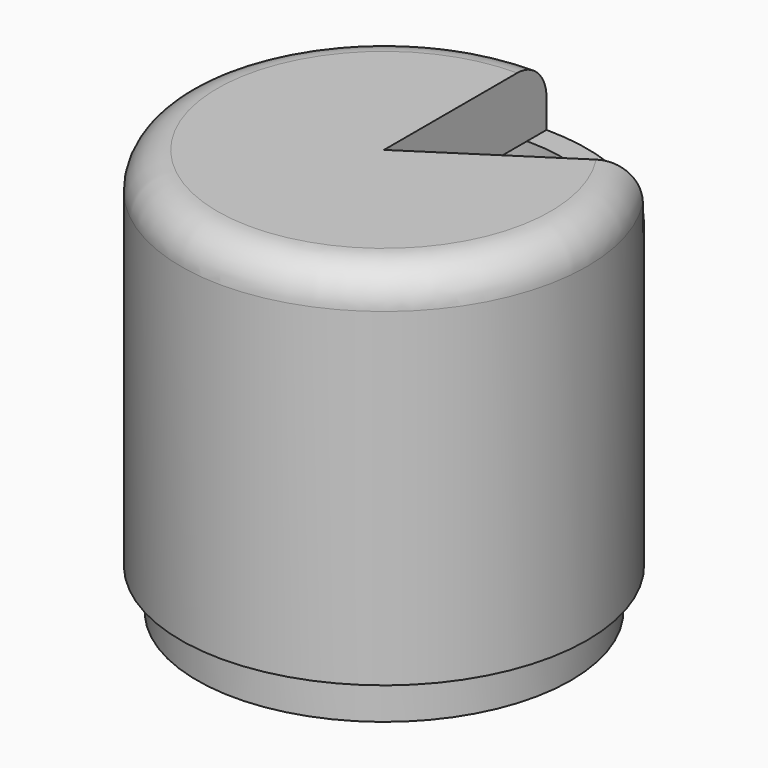
from build123d import *

# Parameters (mm, degrees)
BOX001_W               = 37
BOX001_H               = 39
BOX001_DEPTH           = 10
BOX001_PLACEMENT_ANGLE = 57
BOX_W                  = 37
BOX_H                  = 39
BOX_DEPTH              = 10
CYLINDER001_R          = 22
CYLINDER001_DEPTH      = 37
CYLINDER_R             = 25
CYLINDER_DEPTH         = 40
CYLINDER004_R          = 21
CYLINDER004_DEPTH      = 21
CYLINDER003_R          = 23
CYLINDER003_DEPTH      = 10
CYLINDER002_R          = 25
CYLINDER002_DEPTH      = 5
FILLET_R               = 4.5


with BuildPart() as cubo001:
    # Box001 → Box001 (new body)
    with BuildSketch(Plane.XY):
        with Locations((18.5, 19.5)):
            Rectangle(BOX001_W, BOX001_H)
    extrude(amount=BOX001_DEPTH)


with BuildPart() as cubo001_1:
    # Box001 placement: moved
    add(cubo001.part.moved(Location((0, 0, 37))).rotate(Axis((0, 0, 37), (0, 0, -1)), BOX001_PLACEMENT_ANGLE))


with BuildPart() as cut002:
    # Box → Box (new body)
    with BuildSketch(Plane.XY.offset(37)):
        with Locations((18.5, 19.5)):
            Rectangle(BOX_W, BOX_H)
    extrude(amount=BOX_DEPTH)

    # Cut002: cut Cubo001
    add(cubo001_1.part, mode=Mode.SUBTRACT)


with BuildPart() as cilindro001:
    # Cylinder001 → Cylinder001 (new body)
    with BuildSketch(Plane.XY):
        Circle(CYLINDER001_R)
    extrude(amount=CYLINDER001_DEPTH)


with BuildPart() as cut:
    # Cylinder → Cylinder (new body)
    with BuildSketch(Plane.XY):
        Circle(CYLINDER_R)
    extrude(amount=CYLINDER_DEPTH)

    # Cut: cut Cilindro001
    add(cilindro001.part, mode=Mode.SUBTRACT)


with BuildPart() as cilindro004:
    # Cylinder004 → Cylinder004 (new body)
    with BuildSketch(Plane.XY):
        Circle(CYLINDER004_R)
    extrude(amount=CYLINDER004_DEPTH)


with BuildPart() as cut001:
    # Cylinder003 → Cylinder003 (new body)
    with BuildSketch(Plane.XY):
        Circle(CYLINDER003_R)
    extrude(amount=CYLINDER003_DEPTH)

    # Cut001: cut Cilindro004
    add(cilindro004.part, mode=Mode.SUBTRACT)


with BuildPart() as cut001_1:
    # Cut001 placement: moved
    add(cut001.part.moved(Location((0, 0, -5))))


with BuildPart() as cut003:
    # Cylinder002 → Cylinder002 (new body)
    with BuildSketch(Plane.XY.offset(40)):
        Circle(CYLINDER002_R)
    extrude(amount=CYLINDER002_DEPTH)

    # Fillet
    fillet_edges = [cut003.edges().sort_by_distance(p)[0] for p in [
        (-25, 0, 45),
    ]]
    fillet(fillet_edges, radius=FILLET_R)

    # Fusion: union Cut, Cut001
    add(cut.part)
    add(cut001_1.part)

    # Cut003: cut Cut002
    add(cut002.part, mode=Mode.SUBTRACT)


solid = cut003.part
